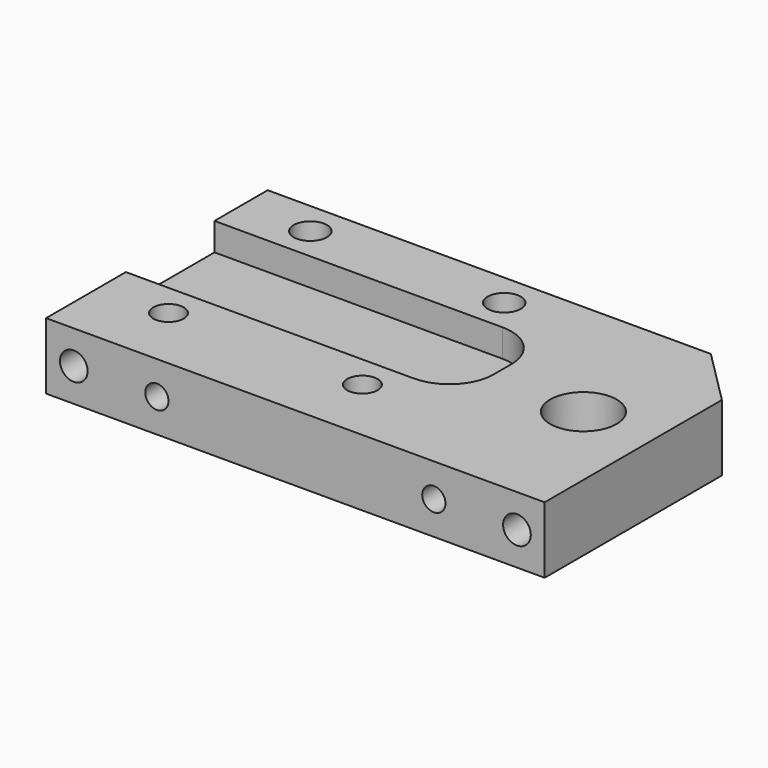
from build123d import *

# Parameters (mm, degrees)
F0_R     = 3
F0_R_2   = 6
F1_DEPTH = 12
F3_DEPTH = 5
F4_R     = 2.75
F5_DEPTH = 25
F6_R     = 2.5
F6_R_2   = 2.1
F7_DEPTH = 12
F8_R     = 5
F8_R_2   = 3
F8_R_3   = 2.75
F9_DEPTH = 5.4


with BuildPart() as f1:
    # F0 (on Top) → F1 (new body)
    with BuildSketch(Plane.XY):
        with BuildLine():
            Line((-45, -25), (45, -25))
            Line((45, -25), (45, 15))
            Line((45, 15), (35, 25))
            Line((35, 25), (-45, 25))
            Line((-45, 25), (-45, 13))
            Line((-45, 13), (7, 13))
            ThreePointArc((7, 13), (12.656854, 10.656854), (15, 5))
            Line((15, 5), (15, 1))
            ThreePointArc((15, 1), (12.656854, -4.656854), (7, -7))
            Line((7, -7), (-45, -7))
            Line((-45, -7), (-45, -25))
        make_face()
        with Locations((-32.5, 19)):
            Circle(F0_R, mode=Mode.SUBTRACT)
        with Locations((32, 0)):
            Circle(F0_R_2, mode=Mode.SUBTRACT)
        with Locations((2.5, 19)):
            Circle(F0_R, mode=Mode.SUBTRACT)
        with BuildLine():
            Line((-45, 13), (-45, -7))
            Line((-45, -7), (7, -7))
            ThreePointArc((7, -7), (12.656854, -4.656854), (15, 1))
            Line((15, 1), (15, 5))
            ThreePointArc((15, 5), (12.656854, 10.656854), (7, 13))
            Line((7, 13), (-45, 13))
        make_face()
    extrude(amount=F1_DEPTH)

    # F2 (on face) → F3 (cut)
    with BuildSketch(Plane.XY.offset(12)):
        with BuildLine():
            Line((-45, 13), (-45, -7))
            Line((-45, -7), (7, -7))
            ThreePointArc((7, -7), (12.656854, -4.656854), (15, 1))
            Line((15, 1), (15, 5))
            ThreePointArc((15, 5), (12.656854, 10.656854), (7, 13))
            Line((7, 13), (-45, 13))
        make_face()
    extrude(amount=-F3_DEPTH, mode=Mode.SUBTRACT)

    # F4 (on face) → F5 (cut)
    with BuildSketch(Plane.XY.offset(12)):
        with Locations((-32.5, -13)):
            Circle(F4_R)
        with Locations((2.5, -13)):
            Circle(F4_R)
    extrude(amount=-F5_DEPTH, mode=Mode.SUBTRACT)

    # F6 (on face) → F7 (cut)
    with BuildSketch(Plane.XZ.offset(25)):
        with Locations((-40, 6)):
            Circle(F6_R)
        with Locations((-25, 6)):
            Circle(F6_R_2)
        with Locations((25, 6)):
            Circle(F6_R_2)
        with Locations((40, 6)):
            Circle(F6_R)
    extrude(amount=-F7_DEPTH, mode=Mode.SUBTRACT)

    # F8 (on face) → F9 (cut)
    with BuildSketch(Plane(origin=(0, 0, 0), x_dir=(1, 0, 0), z_dir=(0, 0, -1))):
        with Locations((2.5, -19)):
            Circle(F8_R)
        with Locations((2.5, -19)):
            Circle(F8_R_2, mode=Mode.SUBTRACT)
        with Locations((2.5, 13)):
            Circle(F8_R)
        with Locations((2.5, 13)):
            Circle(F8_R_3, mode=Mode.SUBTRACT)
        with Locations((-32.5, -19)):
            Circle(F8_R)
        with Locations((-32.5, -19)):
            Circle(F8_R_2, mode=Mode.SUBTRACT)
        with Locations((-32.5, 13)):
            Circle(F8_R)
        with Locations((-32.5, 13)):
            Circle(F8_R_3, mode=Mode.SUBTRACT)
    extrude(amount=-F9_DEPTH, mode=Mode.SUBTRACT)


solid = f1.part
